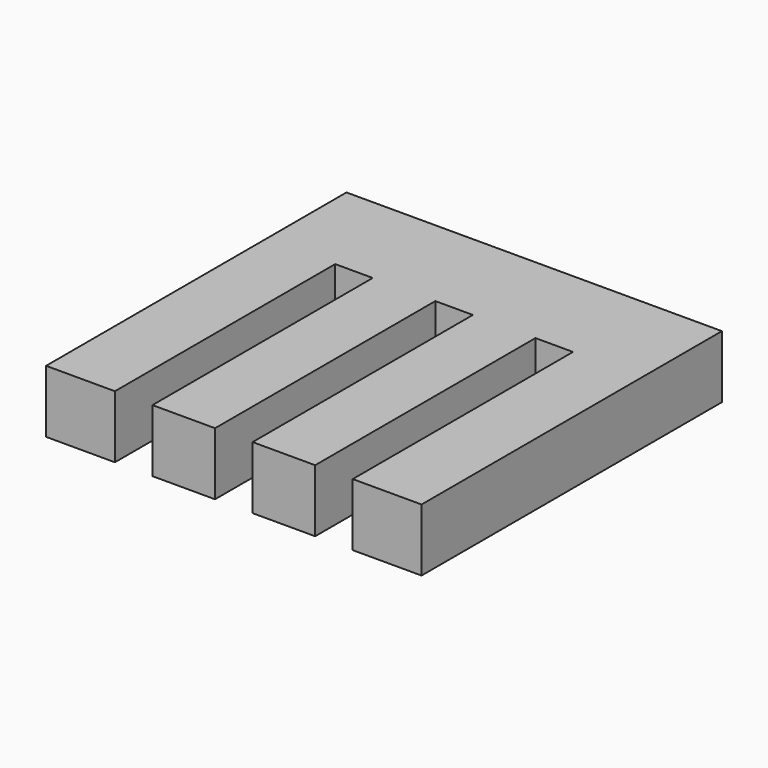
from build123d import *

# Parameters (mm, degrees)
F1_DEPTH = 12.7


with BuildPart() as f1:
    # F0 (on Top) → F1 (new body)
    with BuildSketch(Plane.XY):
        Polygon((38.1, -38.1), (38.1, 38.1), (-38.1, 38.1), (-38.1, -38.1), (-24.13, -38.1), (-24.13, 17.78), (-16.51, 17.78), (-16.51, -38.1), (-3.81, -38.1), (-3.81, 17.78), (3.81, 17.78), (3.81, -38.1), (16.51, -38.1), (16.51, 17.78), (24.13, 17.78), (24.13, -38.1), align=None)
    extrude(amount=F1_DEPTH)


solid = f1.part
